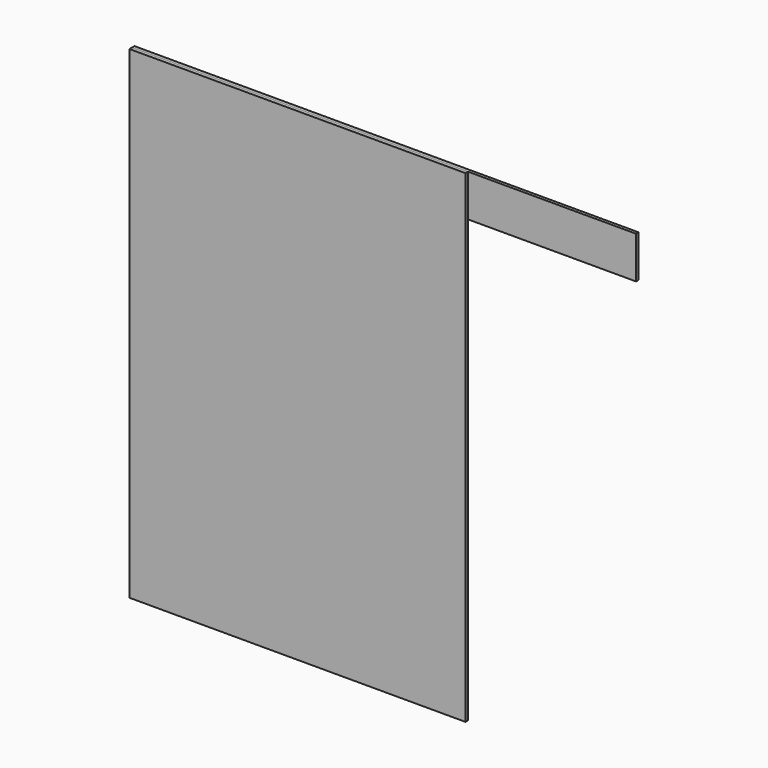
from build123d import *

# Parameters (mm, degrees)
F0_W     = 1600
F0_H     = 2100
F0_H_2   = 200
F1_DEPTH = 15
F0_W_2   = 800
F2_DEPTH = 15


with BuildPart() as f1:
    # F0 (on Front) → F1 (new body)
    with BuildSketch(Plane.XZ):
        with Locations((800, 1050)):
            Rectangle(F0_W, F0_H)
        with Locations((800, 2200)):
            Rectangle(F0_W, F0_H_2)
    extrude(amount=F1_DEPTH)


with BuildPart() as f2:
    # F0 (on Front) → F2 (new body)
    with BuildSketch(Plane.XZ):
        with Locations((800, 2200)):
            Rectangle(F0_W, F0_H_2)
        with Locations((2000, 2200)):
            Rectangle(F0_W_2, F0_H_2)
    extrude(amount=-F2_DEPTH)


solid = Compound([f1.part, f2.part])
